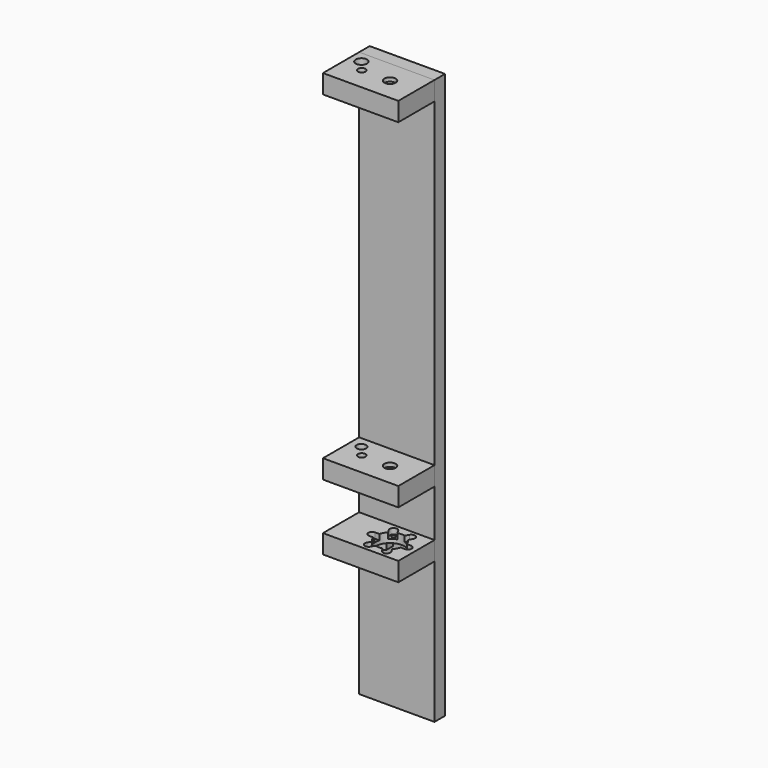
from build123d import *

# Parameters (mm, degrees)
F0_W      = 40
F0_H      = 24
F0_R      = 7.55
F1_DEPTH  = 10
F3_D      = 2
F3_DEPTH  = 18
F3_TIP    = 0.600860619
F5_DEPTH  = 3
F7_DEPTH  = 5
F8_W      = 40
F8_H      = 300
F9_DEPTH  = 7
F10_W     = 40
F10_H     = 24
F10_R     = 2
F10_R_2   = 3
F11_DEPTH = 10
F12_R     = 4
F13_DEPTH = 8
F15_W     = 40
F15_H     = 24
F15_R     = 2
F15_R_2   = 2.5
F15_R_3   = 3
F16_DEPTH = 10
F17_R     = 4
F18_DEPTH = 8


with BuildPart() as f1:
    # F0 (on Top) → F1 (new body)
    with BuildSketch(Plane.XY):
        with Locations((20, 12)):
            Rectangle(F0_W, F0_H)
        with Locations((26, 12)):
            Circle(F0_R, mode=Mode.SUBTRACT)
    extrude(amount=F1_DEPTH)

    # F3
    with Locations(Plane.XY.offset(10)):
        with Locations((21.25, 20.227241336), (16.5, 12), (21.25, 3.772758664), (30.75, 3.772758664), (35.5, 12), (30.75, 20.227241336)):
            Hole(F3_D / 2, depth=F3_DEPTH)
            with Locations((0, 0, -(F3_DEPTH + F3_TIP / 2))):  # 118° drill point
                Cone(0, F3_D / 2, F3_TIP, mode=Mode.SUBTRACT)

    # F4 (on face) → F5 (cut)
    with BuildSketch(Plane.XY.offset(10)):
        with BuildLine():
            ThreePointArc((19.5179491924, 19.227241336), (21.7676380902, 18.2953896834), (23.25, 20.227241336))
            ThreePointArc((23.25, 20.227241336), (23.1818516526, 20.7448794262), (22.9820508076, 21.227241336))
            ThreePointArc((22.9820508076, 21.227241336), (20.25, 21.9592921435), (19.5179491924, 19.227241336))
        make_face()
        with BuildLine():
            ThreePointArc((22.9820508076, 21.227241336), (23.1818516526, 20.7448794262), (23.25, 20.227241336))
            ThreePointArc((23.25, 20.227241336), (21.7676380902, 18.2953896834), (19.5179491924, 19.227241336))
            Line((19.5179491924, 19.227241336), (22.5358983849, 14))
            Line((22.5358983849, 14), (24.8452994616, 14))
            Line((24.8452994616, 14), (26, 16))
            Line((26, 16), (22.9820508076, 21.227241336))
        make_face()
        with BuildLine():
            Line((29.0179491924, 21.227241336), (26, 16))
            Line((26, 16), (27.1547005384, 14))
            Line((27.1547005384, 14), (29.4641016151, 14))
            Line((29.4641016151, 14), (32.4820508076, 19.227241336))
            ThreePointArc((32.4820508076, 19.227241336), (29.75, 18.4951905284), (29.0179491924, 21.227241336))
        make_face()
        Polygon((27.1547005384, 14), (26, 16), (24.8452994616, 14), align=None)
        Polygon((24.8452994616, 14), (22.5358983849, 14), (23.6905989232, 12), align=None)
        with BuildLine():
            Line((23.6905989232, 12), (22.5358983849, 14))
            Line((22.5358983849, 14), (16.5, 14))
            ThreePointArc((16.5, 14), (17.9142135624, 13.4142135624), (18.5, 12))
            ThreePointArc((18.5, 12), (17.9142135624, 10.5857864376), (16.5, 10))
            Line((16.5, 10), (22.5358983849, 10))
            Line((22.5358983849, 10), (23.6905989232, 12))
        make_face()
        Polygon((29.4641016151, 14), (27.1547005384, 14), (28.3094010768, 12), align=None)
        with BuildLine():
            ThreePointArc((32.75, 20.227241336), (31.2676380902, 22.1590929885), (29.0179491924, 21.227241336))
            ThreePointArc((29.0179491924, 21.227241336), (29.75, 18.4951905284), (32.4820508076, 19.227241336))
            ThreePointArc((32.4820508076, 19.227241336), (32.6818516526, 19.7096032457), (32.75, 20.227241336))
        make_face()
        Polygon((24.8452994616, 10), (23.6905989232, 12), (22.5358983849, 10), align=None)
        with BuildLine():
            ThreePointArc((18.5, 12), (17.9142135624, 13.4142135624), (16.5, 14))
            ThreePointArc((16.5, 14), (14.5, 12), (16.5, 10))
            ThreePointArc((16.5, 10), (17.9142135624, 10.5857864376), (18.5, 12))
        make_face()
        with BuildLine():
            Line((29.4641016151, 14), (28.3094010768, 12))
            Line((28.3094010768, 12), (29.4641016151, 10))
            Line((29.4641016151, 10), (35.5, 10))
            ThreePointArc((35.5, 10), (33.5, 12), (35.5, 14))
            Line((35.5, 14), (29.4641016151, 14))
        make_face()
        Polygon((29.4641016151, 10), (28.3094010768, 12), (27.1547005384, 10), align=None)
        Polygon((27.1547005384, 10), (24.8452994616, 10), (26, 8), align=None)
        with BuildLine():
            Line((26, 8), (24.8452994616, 10))
            Line((24.8452994616, 10), (22.5358983849, 10))
            Line((22.5358983849, 10), (19.5179491924, 4.772758664))
            ThreePointArc((19.5179491924, 4.772758664), (21.7676380902, 5.7046103166), (23.25, 3.772758664))
            ThreePointArc((23.25, 3.772758664), (23.1818516526, 3.2551205738), (22.9820508076, 2.772758664))
            Line((22.9820508076, 2.772758664), (26, 8))
        make_face()
        with BuildLine():
            Line((32.4820508076, 4.772758664), (29.4641016151, 10))
            Line((29.4641016151, 10), (27.1547005384, 10))
            Line((27.1547005384, 10), (26, 8))
            Line((26, 8), (29.0179491924, 2.772758664))
            ThreePointArc((29.0179491924, 2.772758664), (29.75, 5.5048094716), (32.4820508076, 4.772758664))
        make_face()
        with BuildLine():
            ThreePointArc((37.5, 12), (36.9142135624, 13.4142135624), (35.5, 14))
            ThreePointArc((35.5, 14), (33.5, 12), (35.5, 10))
            ThreePointArc((35.5, 10), (36.9142135624, 10.5857864376), (37.5, 12))
        make_face()
        with BuildLine():
            ThreePointArc((23.25, 3.772758664), (21.7676380902, 5.7046103166), (19.5179491924, 4.772758664))
            ThreePointArc((19.5179491924, 4.772758664), (20.25, 2.0407078565), (22.9820508076, 2.772758664))
            ThreePointArc((22.9820508076, 2.772758664), (23.1818516526, 3.2551205738), (23.25, 3.772758664))
        make_face()
        with BuildLine():
            ThreePointArc((32.75, 3.772758664), (32.6818516526, 4.2903967543), (32.4820508076, 4.772758664))
            ThreePointArc((32.4820508076, 4.772758664), (29.75, 5.5048094716), (29.0179491924, 2.772758664))
            ThreePointArc((29.0179491924, 2.772758664), (31.2676380902, 1.8409070115), (32.75, 3.772758664))
        make_face()
    extrude(amount=-F5_DEPTH, mode=Mode.SUBTRACT)

    # F6 (on face) → F7 (cut)
    with BuildSketch(Plane(origin=(0, 0, 0), x_dir=(1, 0, 0), z_dir=(0, 0, -1))):
        with BuildLine():
            ThreePointArc((34, -19.6948034413), (36.2958729596, -16.1478910304), (37.1, -12))
            ThreePointArc((37.1, -12), (36.2958729596, -7.8521089696), (34, -4.3051965587))
            Line((34, -4.3051965587), (34, -19.6948034413))
        make_face()
        with BuildLine():
            Line((34, -19.6948034413), (34, -4.3051965587))
            ThreePointArc((34, -4.3051965587), (26, -0.9), (18, -4.3051965587))
            Line((18, -4.3051965587), (18, -19.6948034413))
            ThreePointArc((18, -19.6948034413), (26, -23.1), (34, -19.6948034413))
        make_face()
        with BuildLine():
            ThreePointArc((18, -4.3051965587), (26, -0.9), (34, -4.3051965587))
            Line((34, -4.3051965587), (34, -0.6517456127))
            Line((34, -0.6517456127), (18, -0.6517456127))
            Line((18, -0.6517456127), (18, -4.3051965587))
        make_face()
        with BuildLine():
            Line((34, -26.1574328393), (34, -19.6948034413))
            ThreePointArc((34, -19.6948034413), (26, -23.1), (18, -19.6948034413))
            Line((18, -19.6948034413), (18, -26.1574328393))
            Line((18, -26.1574328393), (34, -26.1574328393))
        make_face()
        with BuildLine():
            Line((18, -19.6948034413), (18, -4.3051965587))
            ThreePointArc((18, -4.3051965587), (14.9, -12), (18, -19.6948034413))
        make_face()
    extrude(amount=-F7_DEPTH, mode=Mode.SUBTRACT)


with BuildPart() as f9:
    # F8 (on face) → F9 (new body)
    with BuildSketch(Plane(origin=(0, 24, 0), x_dir=(-1, 0, 0), z_dir=(0, 1, 0))):
        with Locations((-20, 75)):
            Rectangle(F8_W, F8_H)
    extrude(amount=F9_DEPTH)


with BuildPart() as f11:
    # F10 (on face) → F11 (new body)
    with BuildSketch(Plane.XY.offset(225)):
        with Locations((20, 12)):
            Rectangle(F10_W, F10_H)
        with Locations((11, 12)):
            Circle(F10_R, mode=Mode.SUBTRACT)
        with Locations((6, 18)):
            Circle(F10_R_2, mode=Mode.SUBTRACT)
        with Locations((26, 12)):
            Circle(F10_R_2, mode=Mode.SUBTRACT)
    extrude(amount=-F11_DEPTH)

    # F12 (on face) → F13 (cut)
    with BuildSketch(Plane(origin=(0, 0, 215), x_dir=(1, 0, 0), z_dir=(0, 0, -1))):
        with Locations((26, -12)):
            Circle(F12_R)
    extrude(amount=-F13_DEPTH, mode=Mode.SUBTRACT)


with BuildPart() as f16:
    # F15 (on offset) → F16 (new body)
    with BuildSketch(Plane.XY.offset(35)):
        with Locations((20, 12)):
            Rectangle(F15_W, F15_H)
        with Locations((11, 12)):
            Circle(F15_R, mode=Mode.SUBTRACT)
        with Locations((6, 18)):
            Circle(F15_R_2, mode=Mode.SUBTRACT)
        with Locations((26, 12)):
            Circle(F15_R_3, mode=Mode.SUBTRACT)
    extrude(amount=F16_DEPTH)

    # F17 (on face) → F18 (cut)
    with BuildSketch(Plane(origin=(0, 0, 35), x_dir=(1, 0, 0), z_dir=(0, 0, -1))):
        with Locations((26, -12)):
            Circle(F17_R)
    extrude(amount=-F18_DEPTH, mode=Mode.SUBTRACT)


solid = Compound([f1.part, f9.part, f11.part, f16.part])
